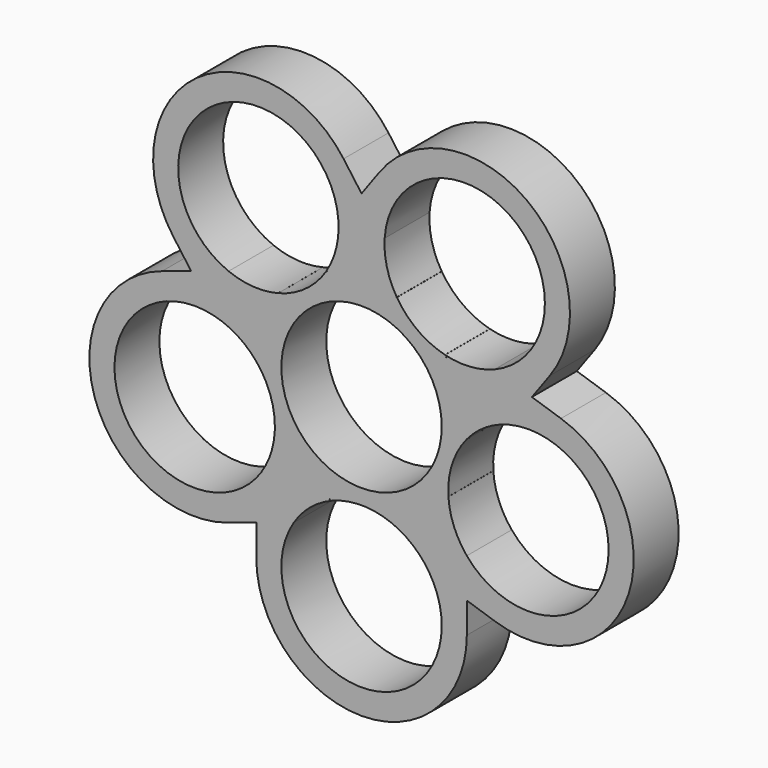
from build123d import *

# Parameters (mm, degrees)
F0_R     = 11.425
F1_DEPTH = 8


with BuildPart() as f1:
    # F0 (on Front) → F1 (new body)
    with BuildSketch(Plane.XZ):
        with BuildLine():
            ThreePointArc((-40.4296863013, -48.1120131359), (-39.1212964763, -51.0311038498), (-38.6734638929, -54.1985034943))
            ThreePointArc((-38.6734638929, -54.1985034943), (-53.2658635374, -65.1756709109), (-59.7672414846, -48.1120131359))
            Line((-59.7672414846, -48.1120131359), (-65.0984638929, -49.8442323013))
            Line((-65.0984638929, -49.8442323013), (-65.0984638929, -54.1985034943))
            ThreePointArc((-65.0984638929, -54.1985034943), (-50.0984638929, -69.1985034943), (-35.0984638929, -54.1985034943))
            Line((-35.0984638929, -54.1985034943), (-35.0984638929, -49.8442323013))
            Line((-35.0984638929, -49.8442323013), (-40.4296863013, -48.1120131359))
        make_face()
        with BuildLine():
            ThreePointArc((-45.8538077773, -43.5912644821), (-42.7837389166, -45.4220905869), (-40.4296863013, -48.1120131359))
            Line((-40.4296863013, -48.1120131359), (-35.0984638929, -49.8442323013))
            Line((-35.0984638929, -49.8442323013), (-35.0984638929, -44.23865333))
            ThreePointArc((-35.0984638929, -44.23865333), (-36.9292899977, -41.1685844692), (-37.7218056429, -37.6830190937))
            Line((-37.7218056429, -37.6830190937), (-37.9632089773, -38.0152822786))
            ThreePointArc((-37.9632089773, -38.0152822786), (-41.2816851085, -41.3337584099), (-45.4632089773, -43.4643512387))
            Line((-45.4632089773, -43.4643512387), (-45.8538077773, -43.5912644821))
        make_face()
        with BuildLine():
            Line((-65.0984638929, -49.8442323013), (-59.7672414846, -48.1120131359))
            ThreePointArc((-59.7672414846, -48.1120131359), (-57.4131888693, -45.4220905869), (-54.3431200085, -43.5912644821))
            Line((-54.3431200085, -43.5912644821), (-54.7337188086, -43.4643512387))
            ThreePointArc((-54.7337188086, -43.4643512387), (-58.9152426773, -41.3337584099), (-62.2337188086, -38.0152822786))
            Line((-62.2337188086, -38.0152822786), (-62.4751221429, -37.6830190937))
            ThreePointArc((-62.4751221429, -37.6830190937), (-63.2676377882, -41.1685844692), (-65.0984638929, -44.23865333))
            Line((-65.0984638929, -44.23865333), (-65.0984638929, -49.8442323013))
        make_face()
        with BuildLine():
            Line((-35.0984638929, -44.23865333), (-35.0984638929, -49.8442323013))
            Line((-35.0984638929, -49.8442323013), (-30.9573059012, -51.1897760981))
            ThreePointArc((-30.9573059012, -51.1897760981), (-12.0562032411, -41.5591832693), (-21.6867960699, -22.6580806092))
            Line((-21.6867960699, -22.6580806092), (-25.8279540617, -21.3125368125))
            Line((-25.8279540617, -21.3125368125), (-29.1228307116, -25.8475454636))
            ThreePointArc((-29.1228307116, -25.8475454636), (-19.3030867945, -27.9092310939), (-14.8970509856, -36.9239283536))
            ThreePointArc((-14.8970509856, -36.9239283536), (-22.4323140065, -47.6663941429), (-35.0984638929, -44.23865333))
        make_face()
        with BuildLine():
            Line((-69.2396218847, -51.1897760981), (-65.0984638929, -49.8442323013))
            Line((-65.0984638929, -49.8442323013), (-65.0984638929, -44.23865333))
            ThreePointArc((-65.0984638929, -44.23865333), (-84.740697499, -40.4544475144), (-71.0740970743, -25.8475454636))
            Line((-71.0740970743, -25.8475454636), (-74.3689737242, -21.3125368125))
            Line((-74.3689737242, -21.3125368125), (-78.5101317159, -22.6580806092))
            ThreePointArc((-78.5101317159, -22.6580806092), (-88.1407245447, -41.5591832693), (-69.2396218847, -51.1897760981))
        make_face()
        with BuildLine():
            Line((-74.3689737242, -21.3125368125), (-71.0740970743, -25.8475454636))
            ThreePointArc((-71.0740970743, -25.8475454636), (-67.7883864419, -27.255150762), (-65.0984638929, -29.6092033773))
            Line((-65.0984638929, -29.6092033773), (-65.0984638929, -29.1985034943))
            ThreePointArc((-65.0984638929, -29.1985034943), (-64.3643116374, -24.5632485786), (-62.2337188086, -20.3817247099))
            Line((-62.2337188086, -20.3817247099), (-61.9923154742, -20.0494615249))
            ThreePointArc((-61.9923154742, -20.0494615249), (-65.5521859403, -20.3728332923), (-69.0377513159, -19.580317647))
            Line((-69.0377513159, -19.580317647), (-74.3689737242, -21.3125368125))
        make_face()
        with BuildLine():
            Line((-35.0984638929, -29.1985034943), (-35.0984638929, -29.6092033773))
            ThreePointArc((-35.0984638929, -29.6092033773), (-32.408541344, -27.255150762), (-29.1228307116, -25.8475454636))
            Line((-29.1228307116, -25.8475454636), (-25.8279540617, -21.3125368125))
            Line((-25.8279540617, -21.3125368125), (-31.15917647, -19.580317647))
            ThreePointArc((-31.15917647, -19.580317647), (-34.6447418456, -20.3728332923), (-38.2046123117, -20.0494615249))
            Line((-38.2046123117, -20.0494615249), (-37.9632089773, -20.3817247099))
            ThreePointArc((-37.9632089773, -20.3817247099), (-35.8326161485, -24.5632485786), (-35.0984638929, -29.1985034943))
        make_face()
        with BuildLine():
            Line((-31.15917647, -19.580317647), (-25.8279540617, -21.3125368125))
            Line((-25.8279540617, -21.3125368125), (-23.26857767, -17.7898574193))
            ThreePointArc((-23.26857767, -17.7898574193), (-26.5870538012, 3.1621762807), (-47.5390875012, -0.1562998505))
            Line((-47.5390875012, -0.1562998505), (-50.0984638929, -3.6789792437))
            Line((-50.0984638929, -3.6789792437), (-46.803587243, -8.2139878949))
            ThreePointArc((-46.803587243, -8.2139878949), (-35.0240773753, 2.4456082853), (-23.9788325856, -8.9730786349))
            ThreePointArc((-23.9788325856, -8.9730786349), (-25.9427063017, -15.3775859883), (-31.15917647, -19.580317647))
        make_face()
        with BuildLine():
            Line((-76.9283501159, -17.7898574193), (-74.3689737242, -21.3125368125))
            Line((-74.3689737242, -21.3125368125), (-69.0377513159, -19.580317647))
            ThreePointArc((-69.0377513159, -19.580317647), (-71.5085417077, 0.2699405258), (-53.3933405429, -8.2139878949))
            Line((-53.3933405429, -8.2139878949), (-50.0984638929, -3.6789792437))
            Line((-50.0984638929, -3.6789792437), (-52.6578402846, -0.1562998505))
            ThreePointArc((-52.6578402846, -0.1562998505), (-73.6098739846, 3.1621762807), (-76.9283501159, -17.7898574193))
        make_face()
        with BuildLine():
            Line((-50.0984638929, -3.6789792437), (-53.3933405429, -8.2139878949))
            ThreePointArc((-53.3933405429, -8.2139878949), (-53.3744082801, -8.5933234246), (-53.3680952002, -8.9730786349))
            ThreePointArc((-53.3680952002, -8.9730786349), (-53.8159277836, -12.1404782793), (-55.1243176086, -15.0595689933))
            Line((-55.1243176086, -15.0595689933), (-54.7337188086, -14.9326557498))
            ThreePointArc((-54.7337188086, -14.9326557498), (-50.0984638929, -14.1985034943), (-45.4632089773, -14.9326557498))
            Line((-45.4632089773, -14.9326557498), (-45.0726101773, -15.0595689933))
            ThreePointArc((-45.0726101773, -15.0595689933), (-46.4802154756, -11.773858361), (-46.803587243, -8.2139878949))
            Line((-46.803587243, -8.2139878949), (-50.0984638929, -3.6789792437))
        make_face()
        with BuildLine():
            ThreePointArc((-54.3346800554, -43.5878909943), (-50.0984638929, -42.7735034943), (-45.8622477305, -43.5878909943))
            ThreePointArc((-45.8622477305, -43.5878909943), (-45.6622982862, -43.5275102536), (-45.4632089773, -43.4643512387))
            ThreePointArc((-45.4632089773, -43.4643512387), (-41.2816851085, -41.3337584099), (-37.9632089773, -38.0152822786))
            ThreePointArc((-37.9632089773, -38.0152822786), (-37.8416192047, -37.845454303), (-37.7224059316, -37.6739497561))
            ThreePointArc((-37.7224059316, -37.6739497561), (-37.1878716842, -33.3934091929), (-35.1042803595, -29.6161877847))
            ThreePointArc((-35.1042803595, -29.6161877847), (-35.0999180801, -29.4073658878), (-35.0984638929, -29.1985034943))
            ThreePointArc((-35.0984638929, -29.1985034943), (-35.8326161485, -24.5632485786), (-37.9632089773, -20.3817247099))
            ThreePointArc((-37.9632089773, -20.3817247099), (-38.0871516741, -20.2136062338), (-38.2134232637, -20.0472298539))
            ThreePointArc((-38.2134232637, -20.0472298539), (-42.1192790931, -18.2160977956), (-45.0677649982, -15.0672590823))
            ThreePointArc((-45.0677649982, -15.0672590823), (-45.2650184055, -14.9985807931), (-45.4632089773, -14.9326557498))
            ThreePointArc((-45.4632089773, -14.9326557498), (-50.0984638929, -14.1985034943), (-54.7337188086, -14.9326557498))
            ThreePointArc((-54.7337188086, -14.9326557498), (-54.9319093804, -14.9985807931), (-55.1291627877, -15.0672590823))
            ThreePointArc((-55.1291627877, -15.0672590823), (-58.0776486928, -18.2160977956), (-61.9835045222, -20.0472298539))
            ThreePointArc((-61.9835045222, -20.0472298539), (-62.1097761118, -20.2136062338), (-62.2337188086, -20.3817247099))
            ThreePointArc((-62.2337188086, -20.3817247099), (-64.3643116374, -24.5632485786), (-65.0984638929, -29.1985034943))
            ThreePointArc((-65.0984638929, -29.1985034943), (-65.0970097058, -29.4073658878), (-65.0926474263, -29.6161877847))
            ThreePointArc((-65.0926474263, -29.6161877847), (-63.1308646168, -33.0384647775), (-62.4498768003, -36.9239283536))
            ThreePointArc((-62.4498768003, -36.9239283536), (-62.456039726, -37.299141454), (-62.4745218543, -37.6739497561))
            ThreePointArc((-62.4745218543, -37.6739497561), (-62.3553085811, -37.845454303), (-62.2337188086, -38.0152822786))
            ThreePointArc((-62.2337188086, -38.0152822786), (-58.9152426773, -41.3337584099), (-54.7337188086, -43.4643512387))
            ThreePointArc((-54.7337188086, -43.4643512387), (-54.5346294996, -43.5275102536), (-54.3346800554, -43.5878909943))
        make_face()
        with Locations((-50.0984638929, -29.1985034943)):
            Circle(F0_R, mode=Mode.SUBTRACT)
        with BuildLine():
            ThreePointArc((-54.3346800554, -43.5878909943), (-50.0984638929, -42.7735034943), (-45.8622477305, -43.5878909943))
            ThreePointArc((-45.8622477305, -43.5878909943), (-45.6622982862, -43.5275102536), (-45.4632089773, -43.4643512387))
            ThreePointArc((-45.4632089773, -43.4643512387), (-41.2816851085, -41.3337584099), (-37.9632089773, -38.0152822786))
            ThreePointArc((-37.9632089773, -38.0152822786), (-37.8416192047, -37.845454303), (-37.7224059316, -37.6739497561))
            ThreePointArc((-37.7224059316, -37.6739497561), (-37.1878716842, -33.3934091929), (-35.1042803595, -29.6161877847))
            ThreePointArc((-35.1042803595, -29.6161877847), (-35.0999180801, -29.4073658878), (-35.0984638929, -29.1985034943))
            ThreePointArc((-35.0984638929, -29.1985034943), (-35.8326161485, -24.5632485786), (-37.9632089773, -20.3817247099))
            ThreePointArc((-37.9632089773, -20.3817247099), (-38.0871516741, -20.2136062338), (-38.2134232637, -20.0472298539))
            ThreePointArc((-38.2134232637, -20.0472298539), (-42.1192790931, -18.2160977956), (-45.0677649982, -15.0672590823))
            ThreePointArc((-45.0677649982, -15.0672590823), (-45.2650184055, -14.9985807931), (-45.4632089773, -14.9326557498))
            ThreePointArc((-45.4632089773, -14.9326557498), (-50.0984638929, -14.1985034943), (-54.7337188086, -14.9326557498))
            ThreePointArc((-54.7337188086, -14.9326557498), (-54.9319093804, -14.9985807931), (-55.1291627877, -15.0672590823))
            ThreePointArc((-55.1291627877, -15.0672590823), (-58.0776486928, -18.2160977956), (-61.9835045222, -20.0472298539))
            ThreePointArc((-61.9835045222, -20.0472298539), (-62.1097761118, -20.2136062338), (-62.2337188086, -20.3817247099))
            ThreePointArc((-62.2337188086, -20.3817247099), (-64.3643116374, -24.5632485786), (-65.0984638929, -29.1985034943))
            ThreePointArc((-65.0984638929, -29.1985034943), (-65.0970097058, -29.4073658878), (-65.0926474263, -29.6161877847))
            ThreePointArc((-65.0926474263, -29.6161877847), (-63.1308646168, -33.0384647775), (-62.4498768003, -36.9239283536))
            ThreePointArc((-62.4498768003, -36.9239283536), (-62.456039726, -37.299141454), (-62.4745218543, -37.6739497561))
            ThreePointArc((-62.4745218543, -37.6739497561), (-62.3553085811, -37.845454303), (-62.2337188086, -38.0152822786))
            ThreePointArc((-62.2337188086, -38.0152822786), (-58.9152426773, -41.3337584099), (-54.7337188086, -43.4643512387))
            ThreePointArc((-54.7337188086, -43.4643512387), (-54.5346294996, -43.5275102536), (-54.3346800554, -43.5878909943))
        make_face()
        with Locations((-50.0984638929, -29.1985034943)):
            Circle(F0_R, mode=Mode.SUBTRACT)
    extrude(amount=F1_DEPTH)


solid = f1.part
